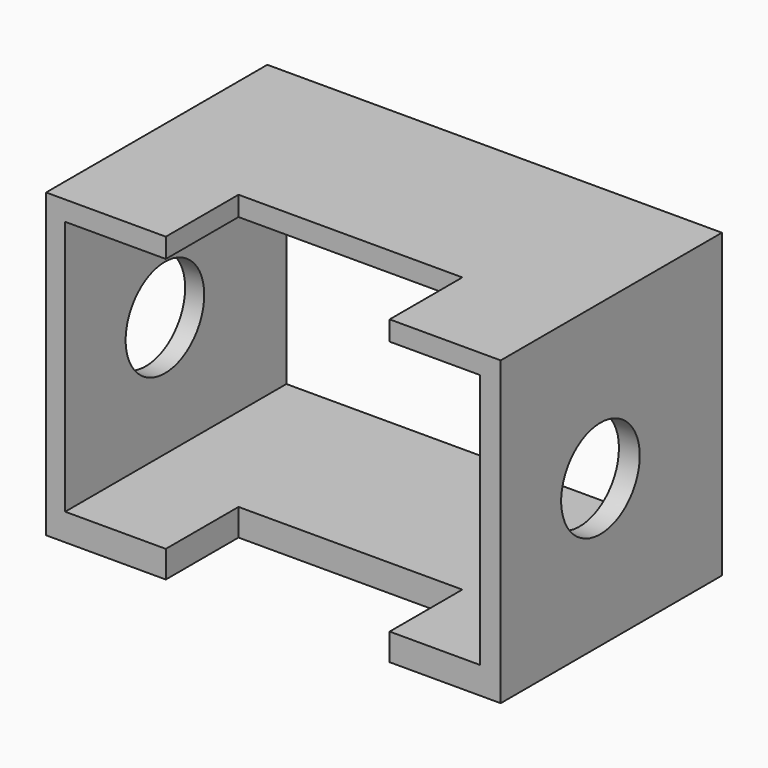
from build123d import *

# Parameters (mm, degrees)
F0_W     = 83.5164114833
F0_H     = 55.4486140609
F0_W_2   = 76.1848241091
F0_H_2   = 46.8833819032
F1_DEPTH = 50.8
F2_R     = 9.0216673632
F3_DEPTH = 113.284
F4_W     = 41.1206781864
F4_H     = 16.6921509981
F5_DEPTH = 1117.6


with BuildPart() as f1:
    # F0 (on Front) → F1 (new body)
    with BuildSketch(Plane.XZ):
        with Locations((1.4344416559, 0.6762035191)):
            Rectangle(F0_W, F0_H)
        with Locations((1.2750588357, 1.3524033129)):
            Rectangle(F0_W_2, F0_H_2, mode=Mode.SUBTRACT)
    extrude(amount=F1_DEPTH)

    # F2 (on face) → F3 (cut)
    with BuildSketch(Plane.YZ.offset(43.1926473975)):
        with Locations((-27.8919320554, 0)):
            Circle(F2_R)
    extrude(amount=-F3_DEPTH, mode=Mode.SUBTRACT)

    # F4 (on face) → F5 (cut)
    with BuildSketch(Plane(origin=(0, 0, -27.0481035113), x_dir=(1, 0, 0), z_dir=(0, 0, -1))):
        with Locations((2.2313538939, 42.4539245009)):
            Rectangle(F4_W, F4_H)
    extrude(amount=-F5_DEPTH, mode=Mode.SUBTRACT)


solid = f1.part
